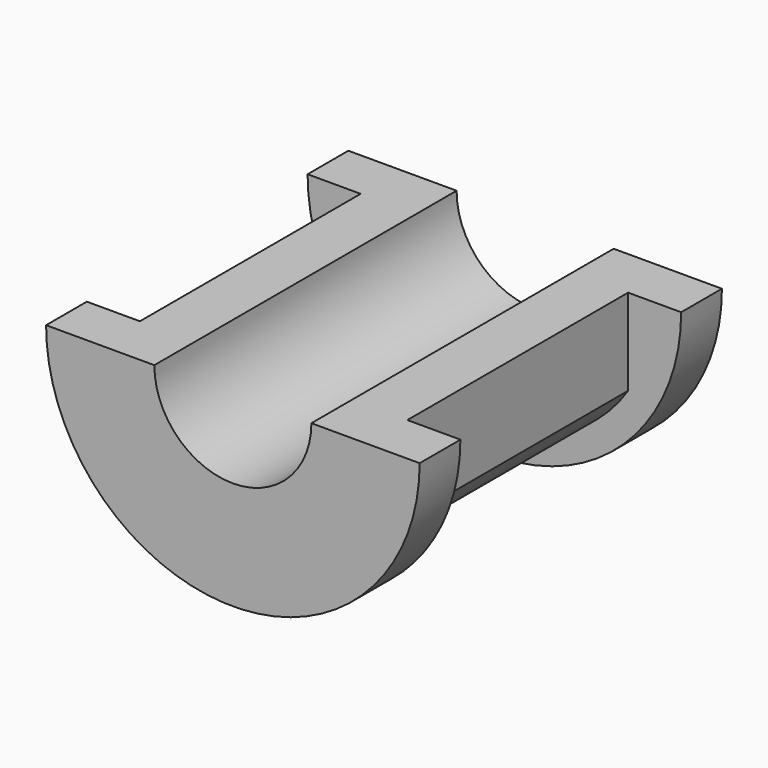
from build123d import *

# Parameters (mm, degrees)
F1_ANGLE = 180
F2_W     = 1.524
F2_H     = 16.51
F3_DEPTH = 11.177


with BuildPart() as f1:
    # F0 (on Right) → F1 (revolve, symmetric)
    with BuildSketch(Plane.YZ) as f1_sk:
        Polygon((11.303, -4.699), (-11.303, -4.699), (-11.303, -11.176), (-8.255, -11.176), (-8.255, -9.525), (8.255, -9.525), (8.255, -11.176), (11.303, -11.176), align=None)
    revolve(axis=Axis((0, 0.390189, 0), (0, 1, 0)), revolution_arc=F1_ANGLE / 2)
    revolve(f1_sk.sketch, axis=Axis((0, 0.390189, 0), (0, -1, 0)), revolution_arc=F1_ANGLE / 2)

    # F2 (on face) → F3 (cut, through all)
    with BuildSketch(Plane.XY):
        with Locations((-8.763, 0)):
            Rectangle(F2_W, F2_H)
        with Locations((8.763, 0)):
            Rectangle(F2_W, F2_H)
    extrude(amount=-F3_DEPTH, mode=Mode.SUBTRACT)


solid = f1.part
